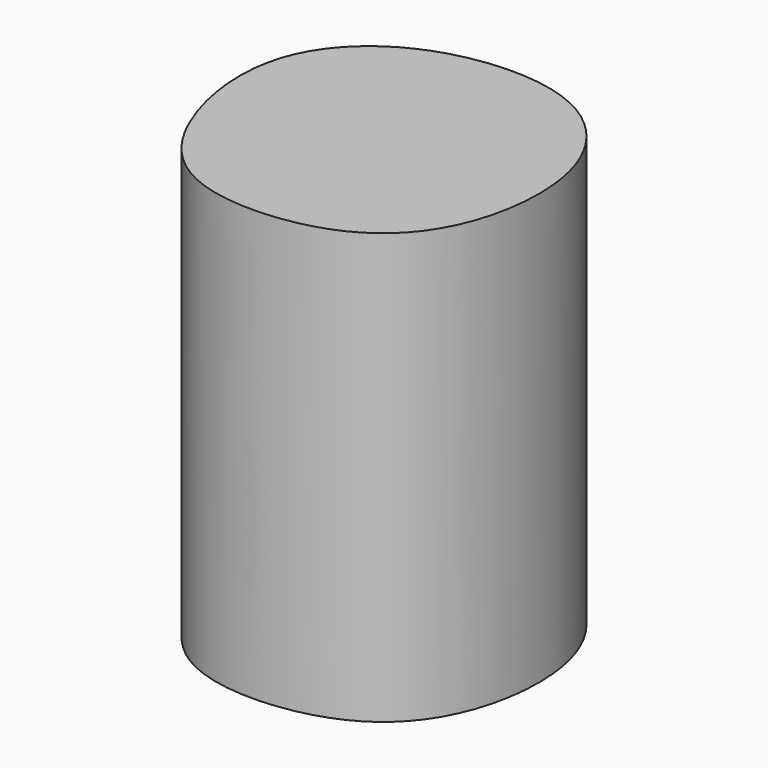
from build123d import *

# Parameters (mm, degrees)
F1_DEPTH = 74.676


with BuildPart() as f1:
    # F0 (on Top) → F1 (new body)
    with BuildSketch(Plane.XY):
        with BuildLine():
            add(Edge.make_bspline(
                [(-60.618262738, -22.1401713789), (-63.5332550468, -15.3592743801), (-66.1095670798, 1.1896925544), (-50.1849827149, 16.8788126751), (-23.4486634962, 18.1619945248), (-8.9601898569, 0.9442994678), (-10.8389128779, -23.2171982427), (-24.1376544433, -37.0311826234), (-49.6715997894, -38.2241055419), (-57.9855429432, -28.2644419992), (-60.618262738, -22.1401713789)],
                knots=[0, 0, 0, 0, 0.1293749762, 0.2513177433, 0.3860764822, 0.5081210503, 0.637294369, 0.752725578, 0.8831530156, 1, 1, 1, 1], degree=3))
        make_face()
    extrude(amount=F1_DEPTH)


solid = f1.part
